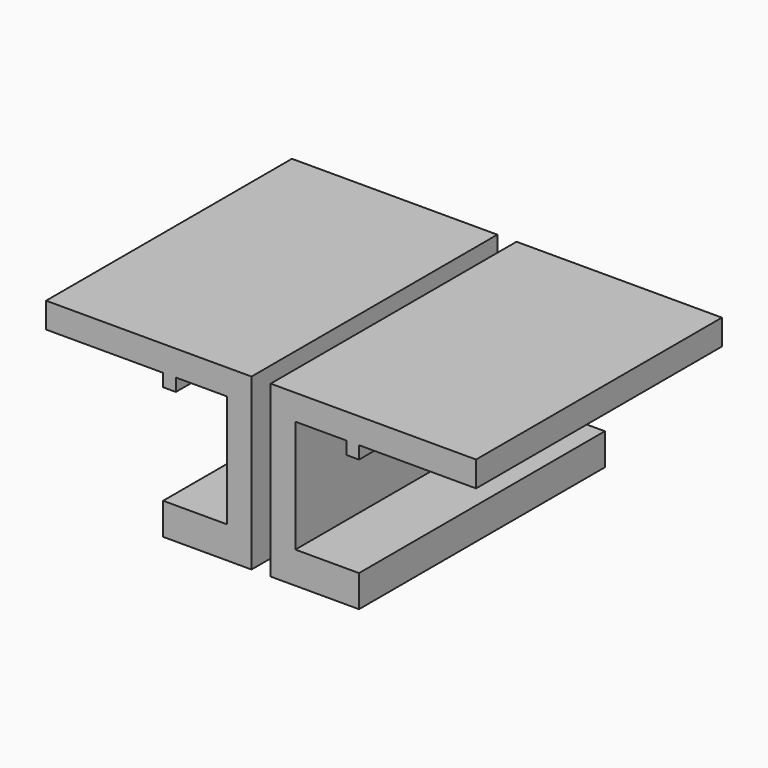
from build123d import *

# Parameters (mm, degrees)
F0_W      = 30.7817
F0_H      = 48.3
F1_DEPTH  = 26.7
F2_W      = 48.3
F2_H      = 21.7
F4_DEPTH  = 10
F3_W      = 48.3
F3_H      = 21.7
F5_DEPTH  = 10
F7_W      = 48.3
F7_H      = 4
F8_DEPTH  = 28.4
F6_W      = 48.3
F6_H      = 4
F9_DEPTH  = 28.4
F10_W     = 2
F10_H     = 48.3
F11_DEPTH = 2
F12_W     = 2
F12_H     = 48.3
F13_DEPTH = 2
F14_W     = 0.01
F14_H     = 48.3
F15_DEPTH = 26.7
F16_DEPTH = 1.5
F17_DEPTH = 1.5


with BuildPart() as f1:
    # F0 (on Top) → F1 (new body)
    with BuildSketch(Plane.XY):
        Rectangle(F0_W, F0_H)
    extrude(amount=-F1_DEPTH)

    # F2 (on face) → F4 (cut)
    with BuildSketch(Plane.YZ.offset(15.39085)):
        with Locations((0, -10.85)):
            Rectangle(F2_W, F2_H)
    extrude(amount=-F4_DEPTH, mode=Mode.SUBTRACT)

    # F3 (on face) → F5 (cut)
    with BuildSketch(Plane(origin=(-15.39085, 0, 0), x_dir=(0, -1, 0), z_dir=(-1, 0, 0))):
        with Locations((0, -10.85)):
            Rectangle(F3_W, F3_H)
    extrude(amount=-F5_DEPTH, mode=Mode.SUBTRACT)

    # F7 (on face) → F8 (join)
    with BuildSketch(Plane.YZ.offset(5.39085)):
        with Locations((0, -2)):
            Rectangle(F7_W, F7_H)
    extrude(amount=F8_DEPTH)

    # F6 (on face) → F9 (join)
    with BuildSketch(Plane(origin=(-5.39085, 0, 0), x_dir=(0, -1, 0), z_dir=(-1, 0, 0))):
        with Locations((0, -2)):
            Rectangle(F6_W, F6_H)
    extrude(amount=F9_DEPTH)

    # F10 (on face) → F11 (join)
    with BuildSketch(Plane(origin=(0, 0, -4), x_dir=(1, 0, 0), z_dir=(0, 0, -1))):
        with Locations((14.39085, 0)):
            Rectangle(F10_W, F10_H)
    extrude(amount=F11_DEPTH)

    # F12 (on face) → F13 (join)
    with BuildSketch(Plane(origin=(0, 0, -4), x_dir=(1, 0, 0), z_dir=(0, 0, -1))):
        with Locations((-14.39085, 0)):
            Rectangle(F12_W, F12_H)
    extrude(amount=F13_DEPTH)

    # F14 (on face) → F15 (cut, through all)
    with BuildSketch(Plane.XY):
        Rectangle(F14_W, F14_H)
    extrude(amount=-F15_DEPTH, mode=Mode.SUBTRACT)

    # F16 (cut): a face of the model
    f16_faces = [f1.faces().sort_by_distance(p)[0] for p in [
        (0.005, 0, -13.35),
    ]]
    extrude(f16_faces, amount=-F16_DEPTH, mode=Mode.SUBTRACT)

    # F17 (cut): a face of the model
    f17_faces = [f1.faces().sort_by_distance(p)[0] for p in [
        (-0.005, 0, -13.35),
    ]]
    extrude(f17_faces, amount=-F17_DEPTH, mode=Mode.SUBTRACT)


solid = f1.part
